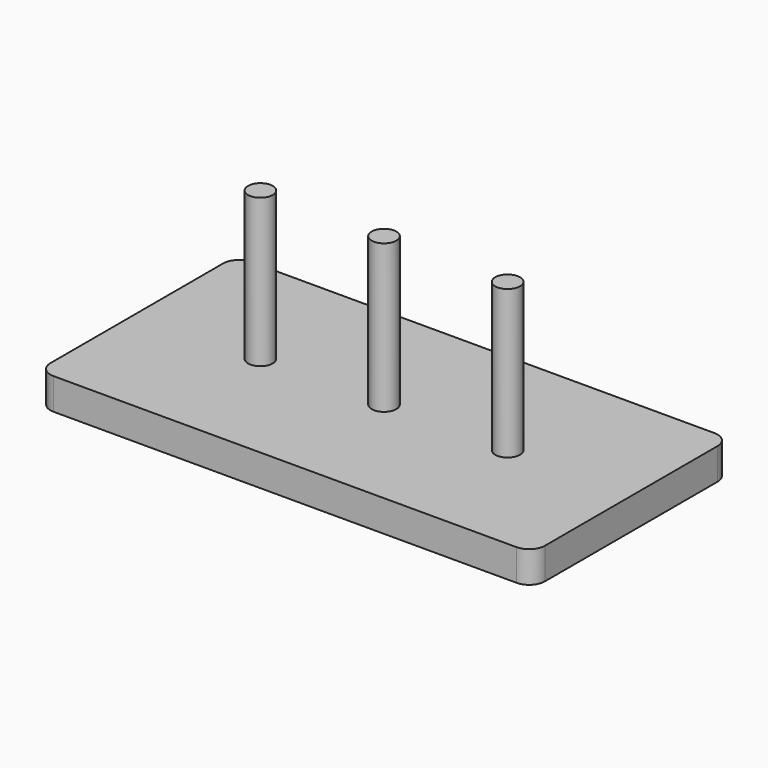
from build123d import *

# Parameters (mm, degrees)
F0_W     = 400
F0_H     = 200
F1_DEPTH = 25.4
F2_R     = 10
F3_DEPTH = 120
F4_R     = 12.7


with BuildPart() as f1:
    # F0 (on Top) → F1 (new body)
    with BuildSketch(Plane.XY):
        Rectangle(F0_W, F0_H)
    extrude(amount=F1_DEPTH)

    # F2 (on face) → F3 (join)
    with BuildSketch(Plane.XY.offset(25.4)):
        Circle(F2_R)
        with Locations((100, 0)):
            Circle(F2_R)
        with Locations((-100, 0)):
            Circle(F2_R)
    extrude(amount=F3_DEPTH)

    # F4
    f4_edges = [f1.edges().sort_by_distance(p)[0] for p in [
        (200, -100, 12.7),
        (-200, -100, 12.7),
        (-200, 100, 12.7),
        (200, 100, 12.7),
    ]]
    fillet(f4_edges, radius=F4_R)


solid = f1.part
